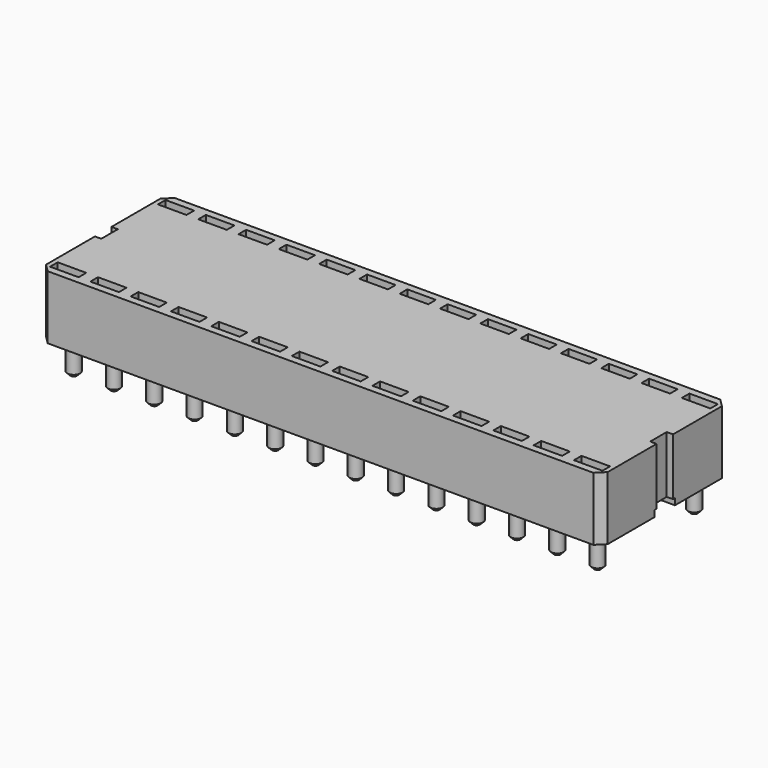
from build123d import *

# Parameters (mm, degrees)
F0_W      = 35.4
F0_H      = 10
F1_DEPTH  = 8.6
F2_R      = 0.4
F3_DEPTH  = 2
F4_SIZE   = 0.2
F5_SIZE   = 0.5
F7_DEPTH  = 4.6
F8_W      = 1.3
F8_H      = 4
F9_DEPTH  = 0.4
F10_W     = 1.3
F10_H     = 4
F11_DEPTH = 0.4
F12_W     = 35.4
F12_H     = 1.6
F13_DEPTH = 0.4
F14_W     = 1.8
F14_H     = 0.6
F15_DEPTH = 3


with BuildPart() as f1:
    # F0 (on Top) → F1 (new body)
    with BuildSketch(Plane.XY):
        with Locations((17.7, 5)):
            Rectangle(F0_W, F0_H)
    extrude(amount=F1_DEPTH)

    # F2 (on face) → F3 (join)
    with BuildSketch(Plane(origin=(0, 0, 0), x_dir=(1, 0, 0), z_dir=(0, 0, -1))):
        with Locations((6.27, -8.81)):
            Circle(F2_R)
        with Locations((3.73, -8.81)):
            Circle(F2_R)
        with Locations((1.19, -8.81)):
            Circle(F2_R)
        with Locations((1.19, -1.19)):
            Circle(F2_R)
        with Locations((3.73, -1.19)):
            Circle(F2_R)
        with Locations((6.27, -1.19)):
            Circle(F2_R)
        with Locations((8.81, -1.19)):
            Circle(F2_R)
        with Locations((8.81, -8.81)):
            Circle(F2_R)
        with Locations((11.35, -1.19)):
            Circle(F2_R)
        with Locations((13.89, -1.19)):
            Circle(F2_R)
        with Locations((11.35, -8.81)):
            Circle(F2_R)
        with Locations((13.89, -8.81)):
            Circle(F2_R)
        with Locations((16.43, -1.19)):
            Circle(F2_R)
        with Locations((16.43, -8.81)):
            Circle(F2_R)
        with Locations((18.97, -1.19)):
            Circle(F2_R)
        with Locations((21.51, -1.19)):
            Circle(F2_R)
        with Locations((18.97, -8.81)):
            Circle(F2_R)
        with Locations((21.51, -8.81)):
            Circle(F2_R)
        with Locations((24.05, -8.81)):
            Circle(F2_R)
        with Locations((24.05, -1.19)):
            Circle(F2_R)
        with Locations((26.59, -8.81)):
            Circle(F2_R)
        with Locations((26.59, -1.19)):
            Circle(F2_R)
        with Locations((29.13, -1.19)):
            Circle(F2_R)
        with Locations((29.13, -8.81)):
            Circle(F2_R)
        with Locations((31.67, -1.19)):
            Circle(F2_R)
        with Locations((31.67, -8.81)):
            Circle(F2_R)
        with Locations((34.21, -1.19)):
            Circle(F2_R)
        with Locations((34.21, -8.81)):
            Circle(F2_R)
    extrude(amount=F3_DEPTH)

    # F4
    f4_edges = [f1.edges().sort_by_distance(p)[0] for p in [
        (0.79, 1.19, -2),
        (3.33, 1.19, -2),
        (5.87, 1.19, -2),
        (8.41, 1.19, -2),
        (10.95, 1.19, -2),
        (13.49, 1.19, -2),
        (16.03, 1.19, -2),
        (0.79, 8.81, -2),
        (3.33, 8.81, -2),
        (5.87, 8.81, -2),
        (8.41, 8.81, -2),
        (10.95, 8.81, -2),
        (13.49, 8.81, -2),
        (16.03, 8.81, -2),
        (18.57, 8.81, -2),
        (18.57, 1.19, -2),
        (21.11, 8.81, -2),
        (23.65, 8.81, -2),
        (21.11, 1.19, -2),
        (23.65, 1.19, -2),
        (26.19, 8.81, -2),
        (28.73, 8.81, -2),
        (26.19, 1.19, -2),
        (28.73, 1.19, -2),
        (31.27, 8.81, -2),
        (33.81, 8.81, -2),
        (31.27, 1.19, -2),
        (33.81, 1.19, -2),
    ]]
    chamfer(f4_edges, length=F4_SIZE)

    # F5
    f5_edges = [f1.edges().sort_by_distance(p)[0] for p in [
        (0, 0, 4.3),
        (0, 10, 4.3),
        (35.4, 0, 4.3),
        (35.4, 10, 4.3),
    ]]
    chamfer(f5_edges, length=F5_SIZE)

    # F6 (on face) → F7 (cut)
    with BuildSketch(Plane.XY.offset(8.6)):
        Polygon((0, 0.5), (0.5, 0), (34.9, 0), (35.4, 0.5), (35.4, 9.5), (34.9, 10), (0.5, 10), (0, 9.5), align=None)
    extrude(amount=-F7_DEPTH, mode=Mode.SUBTRACT)

    # F8 (on face) → F9 (cut)
    with BuildSketch(Plane.YZ.offset(35.4)):
        with Locations((5, 2)):
            Rectangle(F8_W, F8_H)
    extrude(amount=-F9_DEPTH, mode=Mode.SUBTRACT)

    # F10 (on face) → F11 (cut)
    with BuildSketch(Plane(origin=(0, 0, 0), x_dir=(0, -1, 0), z_dir=(-1, 0, 0))):
        with Locations((-5, 2)):
            Rectangle(F10_W, F10_H)
    extrude(amount=-F11_DEPTH, mode=Mode.SUBTRACT)

    # F12 (on face) → F13 (cut)
    with BuildSketch(Plane(origin=(0, 0, 0), x_dir=(1, 0, 0), z_dir=(0, 0, -1))):
        with Locations((17.7, -5)):
            Rectangle(F12_W, F12_H)
    extrude(amount=-F13_DEPTH, mode=Mode.SUBTRACT)

    # F14 (on face) → F15 (cut)
    with BuildSketch(Plane.XY.offset(4)):
        with Locations((1.19, 9.25)):
            Rectangle(F14_W, F14_H)
        with Locations((3.73, 9.25)):
            Rectangle(F14_W, F14_H)
        with Locations((6.27, 9.25)):
            Rectangle(F14_W, F14_H)
        with Locations((8.81, 9.25)):
            Rectangle(F14_W, F14_H)
        with Locations((11.35, 9.25)):
            Rectangle(F14_W, F14_H)
        with Locations((13.89, 9.25)):
            Rectangle(F14_W, F14_H)
        with Locations((16.43, 9.25)):
            Rectangle(F14_W, F14_H)
        with Locations((18.97, 9.25)):
            Rectangle(F14_W, F14_H)
        with Locations((21.51, 9.25)):
            Rectangle(F14_W, F14_H)
        with Locations((24.05, 9.25)):
            Rectangle(F14_W, F14_H)
        with Locations((26.59, 9.25)):
            Rectangle(F14_W, F14_H)
        with Locations((29.13, 9.25)):
            Rectangle(F14_W, F14_H)
        with Locations((31.67, 9.25)):
            Rectangle(F14_W, F14_H)
        with Locations((34.21, 9.25)):
            Rectangle(F14_W, F14_H)
        with Locations((34.21, 0.75)):
            Rectangle(F14_W, F14_H)
        with Locations((31.67, 0.75)):
            Rectangle(F14_W, F14_H)
        with Locations((29.13, 0.75)):
            Rectangle(F14_W, F14_H)
        with Locations((26.59, 0.75)):
            Rectangle(F14_W, F14_H)
        with Locations((24.05, 0.75)):
            Rectangle(F14_W, F14_H)
        with Locations((21.51, 0.75)):
            Rectangle(F14_W, F14_H)
        with Locations((18.97, 0.75)):
            Rectangle(F14_W, F14_H)
        with Locations((16.43, 0.75)):
            Rectangle(F14_W, F14_H)
        with Locations((13.89, 0.75)):
            Rectangle(F14_W, F14_H)
        with Locations((11.35, 0.75)):
            Rectangle(F14_W, F14_H)
        with Locations((8.81, 0.75)):
            Rectangle(F14_W, F14_H)
        with Locations((6.27, 0.75)):
            Rectangle(F14_W, F14_H)
        with Locations((3.73, 0.75)):
            Rectangle(F14_W, F14_H)
        with Locations((1.19, 0.75)):
            Rectangle(F14_W, F14_H)
    extrude(amount=-F15_DEPTH, mode=Mode.SUBTRACT)


solid = f1.part
